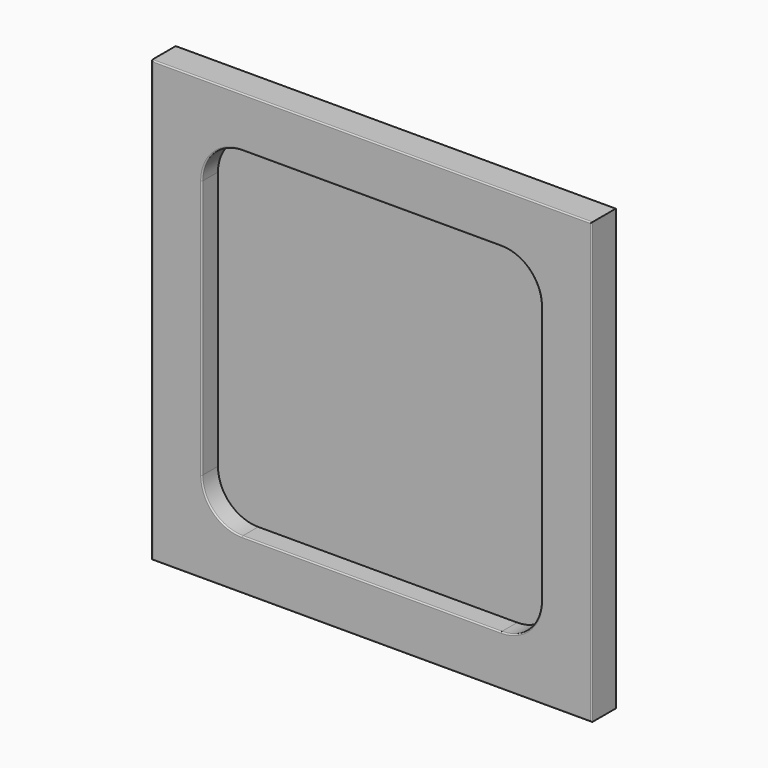
from build123d import *

# Parameters (mm, degrees)
F0_W     = 350
F0_H     = 350
F1_DEPTH = 16
F2_DEPTH = 3
F3_W     = 350
F3_H     = 350
F3_W_2   = 318
F3_H_2   = 318
F4_DEPTH = 5
F5_R     = 1


with BuildPart() as f1:
    # F0 (on Front) → F1 (new body)
    with BuildSketch(Plane.XZ):
        with Locations((7.3111886159, -13.1394357215)):
            Rectangle(F0_W, F0_H)
        with BuildLine():
            ThreePointArc((-127.6888113841, 89.8605642785), (-118.3162283821, 112.4879812765), (-95.6888113841, 121.8605642785))
            Line((-95.6888113841, 121.8605642785), (110.3111886159, 121.8605642785))
            ThreePointArc((110.3111886159, 121.8605642785), (132.9386056138, 112.4879812765), (142.3111886159, 89.8605642785))
            Line((142.3111886159, 89.8605642785), (142.3111886159, -116.1394357215))
            ThreePointArc((142.3111886159, -116.1394357215), (132.9386056138, -138.7668527195), (110.3111886159, -148.1394357215))
            Line((110.3111886159, -148.1394357215), (-95.6888113841, -148.1394357215))
            ThreePointArc((-95.6888113841, -148.1394357215), (-118.3162283821, -138.7668527195), (-127.6888113841, -116.1394357215))
            Line((-127.6888113841, -116.1394357215), (-127.6888113841, 89.8605642785))
        make_face(mode=Mode.SUBTRACT)
    extrude(amount=F1_DEPTH)

    # F0 (on Front) → F2 (join)
    with BuildSketch(Plane.XZ):
        with Locations((7.3111886159, -13.1394357215)):
            Rectangle(F0_W, F0_H)
        with BuildLine():
            ThreePointArc((-127.6888113841, 89.8605642785), (-118.3162283821, 112.4879812765), (-95.6888113841, 121.8605642785))
            Line((-95.6888113841, 121.8605642785), (110.3111886159, 121.8605642785))
            ThreePointArc((110.3111886159, 121.8605642785), (132.9386056138, 112.4879812765), (142.3111886159, 89.8605642785))
            Line((142.3111886159, 89.8605642785), (142.3111886159, -116.1394357215))
            ThreePointArc((142.3111886159, -116.1394357215), (132.9386056138, -138.7668527195), (110.3111886159, -148.1394357215))
            Line((110.3111886159, -148.1394357215), (-95.6888113841, -148.1394357215))
            ThreePointArc((-95.6888113841, -148.1394357215), (-118.3162283821, -138.7668527195), (-127.6888113841, -116.1394357215))
            Line((-127.6888113841, -116.1394357215), (-127.6888113841, 89.8605642785))
        make_face(mode=Mode.SUBTRACT)
        with BuildLine():
            Line((110.3111886159, 121.8605642785), (-95.6888113841, 121.8605642785))
            ThreePointArc((-95.6888113841, 121.8605642785), (-118.3162283821, 112.4879812765), (-127.6888113841, 89.8605642785))
            Line((-127.6888113841, 89.8605642785), (-127.6888113841, -116.1394357215))
            ThreePointArc((-127.6888113841, -116.1394357215), (-118.3162283821, -138.7668527195), (-95.6888113841, -148.1394357215))
            Line((-95.6888113841, -148.1394357215), (110.3111886159, -148.1394357215))
            ThreePointArc((110.3111886159, -148.1394357215), (132.9386056138, -138.7668527195), (142.3111886159, -116.1394357215))
            Line((142.3111886159, -116.1394357215), (142.3111886159, 89.8605642785))
            ThreePointArc((142.3111886159, 89.8605642785), (132.9386056138, 112.4879812765), (110.3111886159, 121.8605642785))
        make_face()
    extrude(amount=-F2_DEPTH)

    # F3 (on face) → F4 (join)
    with BuildSketch(Plane(origin=(0, 3, 0), x_dir=(-1, 0, 0), z_dir=(0, 1, 0))):
        with Locations((-7.3111886159, -13.1394357215)):
            Rectangle(F3_W, F3_H)
        with Locations((-7.3111886159, -13.1394357215)):
            Rectangle(F3_W_2, F3_H_2, mode=Mode.SUBTRACT)
    extrude(amount=F4_DEPTH)

    # F5
    f5_edges = [f1.edges().sort_by_distance(p)[0] for p in [
        (7.311189, -16, 161.860564),
        (-167.688811, -16, -13.139436),
        (7.311189, -16, -188.139436),
        (182.311189, -16, -13.139436),
        (-118.316228, -16, 112.487981),
        (7.311189, -16, 121.860564),
        (132.938606, -16, 112.487981),
        (142.311189, -16, -13.139436),
        (132.938606, -16, -138.766853),
        (7.311189, -16, -148.139436),
        (-118.316228, -16, -138.766853),
        (-127.688811, -16, -13.139436),
    ]]
    fillet(f5_edges, radius=F5_R)


solid = f1.part
